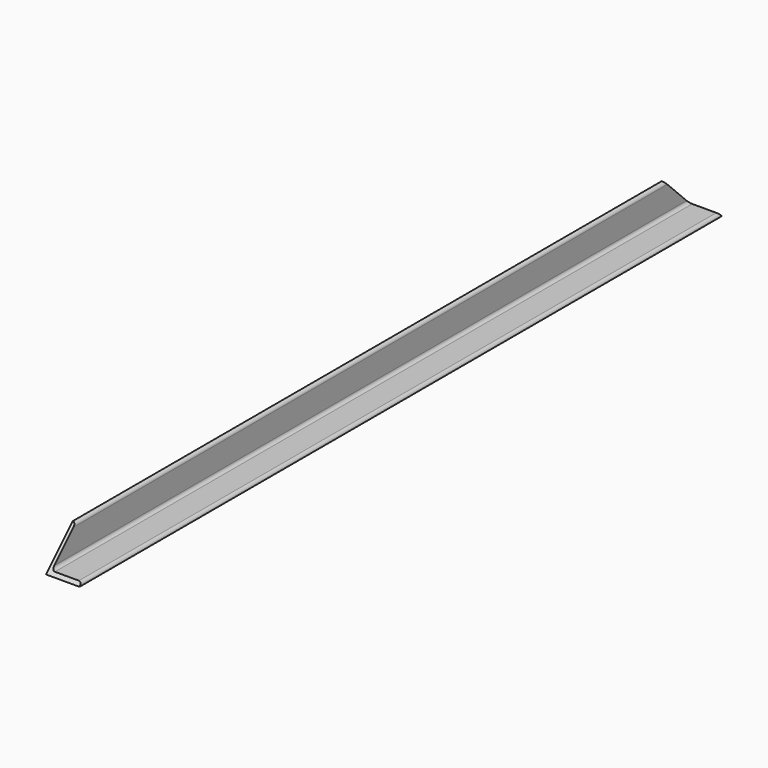
from build123d import *

# Parameters (mm, degrees)
F1_DEPTH = 1219.2
F3_DEPTH = 50.8


with BuildPart() as f1:
    # F0 (on Front) → F1 (new body)
    with BuildSketch(Plane.XZ):
        with BuildLine():
            ThreePointArc((4.7625, -4.7625), (3.367596, -1.394904), (0, 0))
            Line((0, 0), (0, -50.8))
            Line((0, -50.8), (50.8, -50.8))
            ThreePointArc((50.8, -50.8), (49.405096, -47.432404), (46.0375, -46.0375))
            Line((46.0375, -46.0375), (9.525, -46.0375))
            ThreePointArc((9.525, -46.0375), (6.157404, -44.642596), (4.7625, -41.275))
            Line((4.7625, -41.275), (4.7625, -4.7625))
        make_face()
    extrude(amount=-F1_DEPTH)

    # F2 (on face) → F3 (cut)
    with BuildSketch(Plane(origin=(0, 0, 0), x_dir=(0, -1, 0), z_dir=(-1, 0, 0))):
        Polygon((-50.8, 0), (0, -50.8), (0, 0), align=None)
        Polygon((-1219.2, 0), (-1219.2, -50.8), (-1168.4, 0), align=None)
    extrude(amount=-F3_DEPTH, mode=Mode.SUBTRACT)


solid = f1.part
